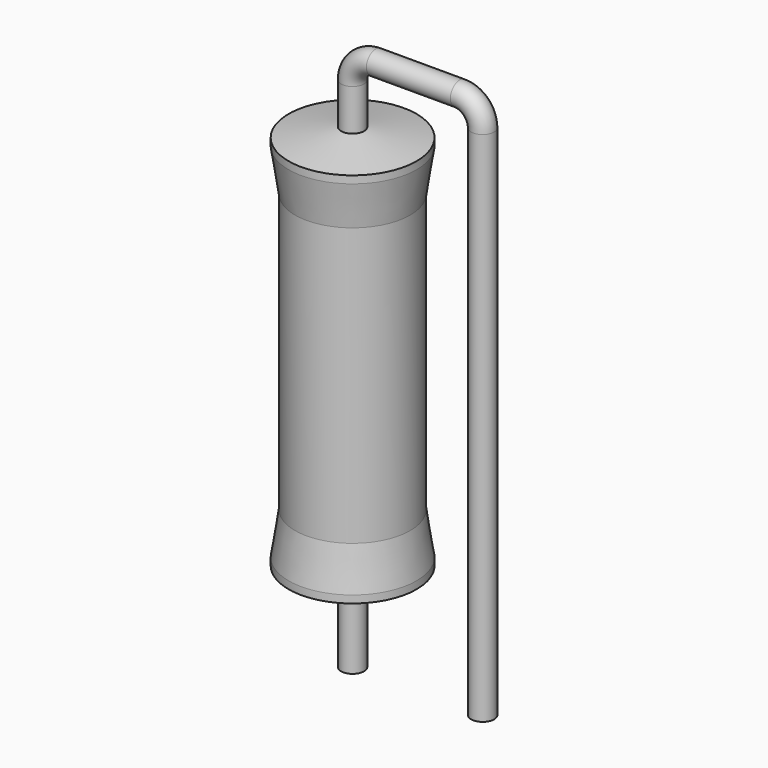
from build123d import *

# Parameters (mm, degrees)
SKETCH_R = 0.45


with BuildPart() as sweep_body:
    # Sweep: sweep along a path in Sketch001
    with BuildLine(Plane.XZ) as sweep_path:
        Line((0, -3), (0, 17.2))
        ThreePointArc((0, 17.2), (0.263601, 17.836393), (0.899991, 18.1))
        Line((0.899991, 18.1), (4.18, 18.1))
        ThreePointArc((4.18, 18.1), (4.816396, 17.836396), (5.08, 17.2))
        Line((5.08, 17.2), (5.08, -3))
    # Sketch → Sweep (sweep)
    with BuildSketch(Plane.XY.offset(-2)):
        Circle(SKETCH_R)
    sweep(path=sweep_path.line)


with BuildPart() as revolution:
    # Sketch002 → Revolution (revolve)
    with BuildSketch(Plane.XZ):
        Polygon((0, 0.1), (0, 15.6), (0.3375, 15.6), (2.5, 15.2125), (2.5, 14.92), (2.25, 13.275), (2.25, 2.425), (2.5, 0.78), (2.5, 0.4875), (0.3375, 0.1), align=None)
    revolve(axis=Axis((0, 0, 0), (0, 0, 1)))


solid = Compound([sweep_body.part, revolution.part])
